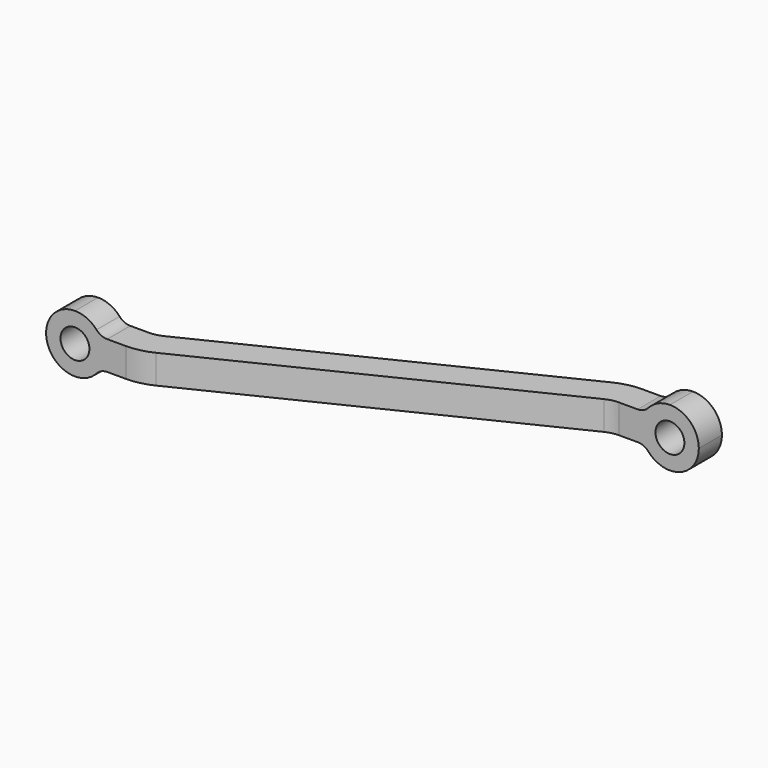
from build123d import *

# Parameters (mm, degrees)
F0_R     = 1.5875
F1_DEPTH = 21.43125
F3_W     = 5.5415052762
F3_H     = 18.25625
F3_W_2   = 1.1832526381
F4_DEPTH = 25.4


with BuildPart() as f1:
    # F0 (on Front) → F1 (new body)
    with BuildSketch(Plane.XZ):
        with BuildLine():
            ThreePointArc((62.670968473, 32.2898349643), (61.7410325032, 34.5348989945), (59.495968473, 35.4648349643))
            ThreePointArc((59.495968473, 35.4648349643), (58.1997801507, 35.1882001644), (57.1294631968, 34.4065016309))
            ThreePointArc((57.1294631968, 34.4065016309), (56.9242538578, 34.1517986959), (56.7463378159, 33.8773349643))
            ThreePointArc((56.7463378159, 33.8773349643), (56.320968473, 32.2898349643), (56.7463378159, 30.7023349643))
            ThreePointArc((56.7463378159, 30.7023349643), (56.9242538578, 30.4278712326), (57.1294631968, 30.1731682976))
            ThreePointArc((57.1294631968, 30.1731682976), (58.1997801507, 29.3914697641), (59.495968473, 29.1148349643))
            ThreePointArc((59.495968473, 29.1148349643), (61.7410325032, 30.044770934), (62.670968473, 32.2898349643))
        make_face()
        with Locations((59.495968473, 32.2898349643)):
            Circle(F0_R, mode=Mode.SUBTRACT)
        with BuildLine():
            Line((12.2457263872, 33.8773349643), (11.44559913, 33.8773349643))
            ThreePointArc((11.44559913, 33.8773349643), (11.7627829714, 33.1115854325), (11.870968473, 32.2898349643))
            ThreePointArc((11.870968473, 32.2898349643), (11.7627829714, 31.4680844961), (11.44559913, 30.7023349643))
            Line((11.44559913, 30.7023349643), (12.2457263872, 30.7023349643))
            Line((12.2457263872, 30.7023349643), (55.9462105587, 30.7023349643))
            Line((55.9462105587, 30.7023349643), (56.7463378159, 30.7023349643))
            ThreePointArc((56.7463378159, 30.7023349643), (56.320968473, 32.2898349643), (56.7463378159, 33.8773349643))
            Line((56.7463378159, 33.8773349643), (55.9462105587, 33.8773349643))
            Line((55.9462105587, 33.8773349643), (12.2457263872, 33.8773349643))
        make_face()
        with BuildLine():
            ThreePointArc((11.0624737491, 34.4065016309), (9.9921567952, 35.1882001644), (8.695968473, 35.4648349643))
            ThreePointArc((8.695968473, 35.4648349643), (6.4509044427, 34.5348989945), (5.520968473, 32.2898349643))
            ThreePointArc((5.520968473, 32.2898349643), (6.4509044427, 30.044770934), (8.695968473, 29.1148349643))
            ThreePointArc((8.695968473, 29.1148349643), (9.9921567952, 29.3914697641), (11.0624737491, 30.1731682976))
            ThreePointArc((11.0624737491, 30.1731682976), (11.2676830882, 30.4278712326), (11.44559913, 30.7023349643))
            ThreePointArc((11.44559913, 30.7023349643), (11.7627829714, 31.4680844961), (11.870968473, 32.2898349643))
            ThreePointArc((11.870968473, 32.2898349643), (11.7627829714, 33.1115854325), (11.44559913, 33.8773349643))
            ThreePointArc((11.44559913, 33.8773349643), (11.2676830882, 34.1517986959), (11.0624737491, 34.4065016309))
        make_face()
        with Locations((8.695968473, 32.2898349643)):
            Circle(F0_R, mode=Mode.SUBTRACT)
        with BuildLine():
            ThreePointArc((12.2457263872, 33.8773349643), (11.5976322261, 34.0156523642), (11.0624737491, 34.4065016309))
            ThreePointArc((11.0624737491, 34.4065016309), (11.2676830882, 34.1517986959), (11.44559913, 33.8773349643))
            Line((11.44559913, 33.8773349643), (12.2457263872, 33.8773349643))
        make_face()
        with BuildLine():
            ThreePointArc((11.44559913, 30.7023349643), (11.2676830882, 30.4278712326), (11.0624737491, 30.1731682976))
            ThreePointArc((11.0624737491, 30.1731682976), (11.5976322261, 30.5640175643), (12.2457263872, 30.7023349643))
            Line((12.2457263872, 30.7023349643), (11.44559913, 30.7023349643))
        make_face()
        with BuildLine():
            ThreePointArc((56.7463378159, 33.8773349643), (56.9242538578, 34.1517986959), (57.1294631968, 34.4065016309))
            ThreePointArc((57.1294631968, 34.4065016309), (56.5943047198, 34.0156523642), (55.9462105587, 33.8773349643))
            Line((55.9462105587, 33.8773349643), (56.7463378159, 33.8773349643))
        make_face()
        with BuildLine():
            ThreePointArc((55.9462105587, 30.7023349643), (56.5943047198, 30.5640175643), (57.1294631968, 30.1731682976))
            ThreePointArc((57.1294631968, 30.1731682976), (56.9242538578, 30.4278712326), (56.7463378159, 30.7023349643))
            Line((56.7463378159, 30.7023349643), (55.9462105587, 30.7023349643))
        make_face()
    extrude(amount=F1_DEPTH)

    # F3 (on offset) → F4 (cut)
    with BuildSketch(Plane.XY.offset(37.0523349643)):
        with BuildLine():
            ThreePointArc((51.0925536335, -0.6445667631), (52.4495618095, -0.1632399006), (53.8801209564, 0))
            Line((53.8801209564, 0), (52.4118159895, 0))
            Line((52.4118159895, 0), (51.0925536335, -0.6445667631))
        make_face()
        with Locations((59.9002158349, -12.303125)):
            Rectangle(F3_W, F3_H)
        with Locations((56.5378368777, -12.303125)):
            Rectangle(F3_W_2, F3_H)
        with Locations((11.6541000682, -9.128125)):
            Rectangle(F3_W_2, F3_H)
        with BuildLine():
            Line((51.0925536335, -0.6445667631), (52.4118159895, 0))
            Line((52.4118159895, 0), (12.2457263872, 0))
            Line((12.2457263872, 0), (12.2457263872, -18.25625))
            Line((12.2457263872, -18.25625), (14.3118159895, -18.25625))
            ThreePointArc((14.3118159895, -18.25625), (15.027095563, -18.1746300497), (15.7055996509, -17.9339666184))
            Line((15.7055996509, -17.9339666184), (51.0925536335, -0.6445667631))
        make_face()
        with BuildLine():
            Line((55.9462105587, -21.43125), (55.9462105587, -3.175))
            Line((55.9462105587, -3.175), (53.8801209564, -3.175))
            ThreePointArc((53.8801209564, -3.175), (53.164841383, -3.2566199503), (52.486337295, -3.4972833816))
            Line((52.486337295, -3.4972833816), (17.0993833124, -20.7866832369))
            Line((17.0993833124, -20.7866832369), (15.7801209564, -21.43125))
            Line((15.7801209564, -21.43125), (55.9462105587, -21.43125))
        make_face()
        with Locations((8.2917211111, -9.128125)):
            Rectangle(F3_W, F3_H)
        with BuildLine():
            Line((14.3118159895, -21.43125), (15.7801209564, -21.43125))
            Line((15.7801209564, -21.43125), (17.0993833124, -20.7866832369))
            ThreePointArc((17.0993833124, -20.7866832369), (15.7423751365, -21.2680100994), (14.3118159895, -21.43125))
        make_face()
    extrude(amount=-F4_DEPTH, mode=Mode.SUBTRACT)


solid = f1.part
